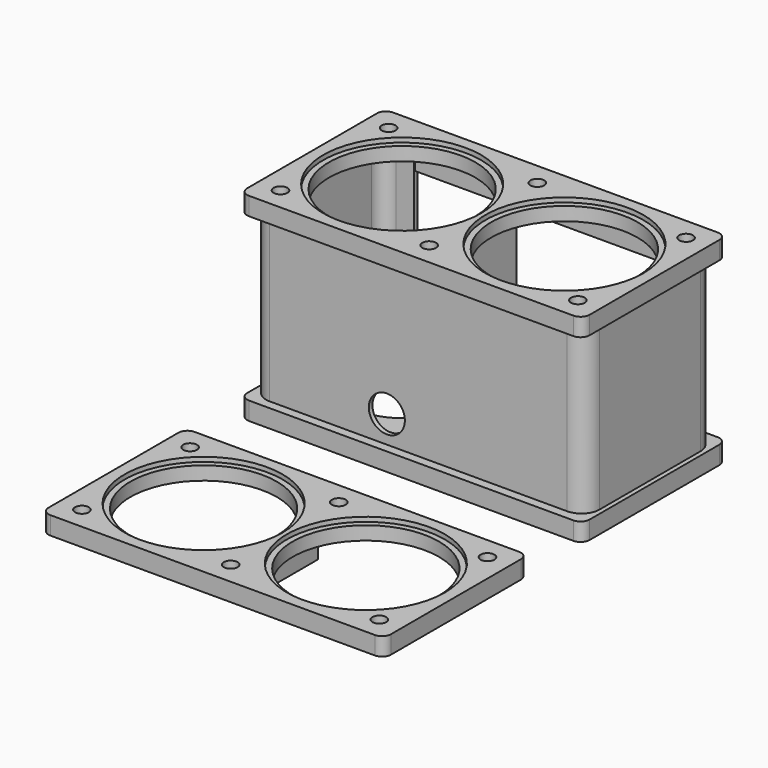
from build123d import *

# Parameters (mm, degrees)
F0_W      = 482.6
F0_H      = 254
F1_DEPTH  = 25.4
F2_W      = 12.7
F2_H      = 101.6
F3_DEPTH  = 228.6
F4_W      = 482.6
F4_H      = 254
F5_DEPTH  = 25.4
F6_R      = 25.4
F7_DEPTH  = 6.35
F9_R      = 103.124
F10_DEPTH = 25.4
F9_R_2    = 111.252
F11_DEPTH = 6.35
F9_R_3    = 9.7234375
F12_DEPTH = 25.4
F13_R     = 69.85
F13_R_2   = 6.746875
F14_DEPTH = 25.4
F16_DEPTH = 25.4
F18_DEPTH = 25.4
F19_W     = 482.6
F19_H     = 254
F19_R     = 9.7234375
F19_R_2   = 111.252
F20_DEPTH = 25.4
F19_R_3   = 103.124
F21_DEPTH = 19.05
F22_W     = 12.7
F22_H     = 101.6
F23_DEPTH = 25.4
F24_R     = 12.7
F24_2_R   = 12.7


with BuildPart() as f1:
    # F0 (on Top) → F1 (new body)
    with BuildSketch(Plane.XY):
        Rectangle(F0_W, F0_H)
    extrude(amount=F1_DEPTH)

    # F2 (on face) → F3 (join)
    with BuildSketch(Plane.XY.offset(25.4)):
        with BuildLine():
            Line((-209.55, -114.3), (209.55, -114.3))
            ThreePointArc((209.55, -114.3), (227.5105122422, -106.8605122422), (234.95, -88.9))
            Line((234.95, -88.9), (234.95, 88.9))
            ThreePointArc((234.95, 88.9), (227.5105122421, 106.8605122421), (209.55, 114.3))
            Line((209.55, 114.3), (184.15, 114.3))
            Line((184.15, 114.3), (184.15, 107.95))
            Line((184.15, 107.95), (209.55, 107.95))
            ThreePointArc((209.55, 107.95), (223.0203841815, 102.3703841815), (228.6, 88.9))
            Line((228.6, 88.9), (228.6, -88.9))
            ThreePointArc((228.6, -88.9), (223.0203841817, -102.3703841817), (209.55, -107.95))
            Line((209.55, -107.95), (-209.55, -107.95))
            ThreePointArc((-209.55, -107.95), (-223.0203841815, -102.3703841815), (-228.6, -88.9))
            Line((-228.6, -88.9), (-228.6, 88.9))
            ThreePointArc((-228.6, 88.9), (-223.0203841817, 102.3703841817), (-209.55, 107.95))
            Line((-209.55, 107.95), (-184.1380936862, 107.95))
            Line((-184.1380936862, 107.95), (-184.15, 114.3))
            Line((-184.15, 114.3), (-209.55, 114.3))
            ThreePointArc((-209.55, 114.3), (-227.5105122422, 106.8605122422), (-234.95, 88.9))
            Line((-234.95, 88.9), (-234.95, -88.9))
            ThreePointArc((-234.95, -88.9), (-227.5105122421, -106.8605122421), (-209.55, -114.3))
        make_face()
        Rectangle(F2_W, F2_H)
    extrude(amount=F3_DEPTH)

    # F4 (on face) → F5 (join)
    with BuildSketch(Plane.XY.offset(254)):
        Rectangle(F4_W, F4_H)
    extrude(amount=F5_DEPTH)

    # F6 (on face) → F7 (cut)
    with BuildSketch(Plane.XZ.offset(114.3)):
        with Locations((-44.45, 63.5)):
            Circle(F6_R)
    extrude(amount=-F7_DEPTH, mode=Mode.SUBTRACT)

    # F9 (on face) → F10 (cut)
    with BuildSketch(Plane.XY.offset(279.4)):
        with Locations((-114.3, 0)):
            Circle(F9_R)
        with Locations((114.3, 0)):
            Circle(F9_R)
    extrude(amount=-F10_DEPTH, mode=Mode.SUBTRACT)

    # F9 (on face) → F11 (cut)
    with BuildSketch(Plane.XY.offset(279.4)):
        with Locations((-114.3, 0)):
            Circle(F9_R_2)
        with Locations((-114.3, 0)):
            Circle(F9_R, mode=Mode.SUBTRACT)
        with Locations((114.3, 0)):
            Circle(F9_R_2)
        with Locations((114.3, 0)):
            Circle(F9_R, mode=Mode.SUBTRACT)
    extrude(amount=-F11_DEPTH, mode=Mode.SUBTRACT)

    # F9 (on face) → F12 (cut)
    with BuildSketch(Plane.XY.offset(279.4)):
        with Locations((-209.55, 95.25)):
            Circle(F9_R_3)
        with Locations((0, 95.25)):
            Circle(F9_R_3)
        with Locations((209.55, 95.25)):
            Circle(F9_R_3)
        with Locations((209.55, -95.25)):
            Circle(F9_R_3)
        with Locations((0, -95.25)):
            Circle(F9_R_3)
        with Locations((-209.55, -95.25)):
            Circle(F9_R_3)
    extrude(amount=-F12_DEPTH, mode=Mode.SUBTRACT)

    # F13 (on face) → F14 (cut)
    with BuildSketch(Plane(origin=(0, 0, 0), x_dir=(1, 0, 0), z_dir=(0, 0, -1))):
        with Locations((114.3, 0)):
            Circle(F13_R)
        with Locations((114.3, -89.8144)):
            Circle(F13_R_2)
        with Locations((177.8083712882, -63.5083712882)):
            Circle(F13_R_2)
        with Locations((50.7916287118, -63.5083712882)):
            Circle(F13_R_2)
        with Locations((50.7916287118, 63.5083712882)):
            Circle(F13_R_2)
        with Locations((114.3, 89.8144)):
            Circle(F13_R_2)
        with Locations((177.8083712882, 63.5083712882)):
            Circle(F13_R_2)
        with Locations((-50.7916287118, -63.5083712882)):
            Circle(F13_R_2)
        with Locations((-114.3, -89.8144)):
            Circle(F13_R_2)
        with Locations((-177.8083712882, -63.5083712882)):
            Circle(F13_R_2)
        with Locations((-114.3, 0)):
            Circle(F13_R)
        with Locations((-50.7916287118, 63.5083712882)):
            Circle(F13_R_2)
        with Locations((-114.3, 89.8144)):
            Circle(F13_R_2)
        with Locations((-177.8083712882, 63.5083712882)):
            Circle(F13_R_2)
    extrude(amount=-F14_DEPTH, mode=Mode.SUBTRACT)

    # F24
    f24_edges = [f1.edges().sort_by_distance(p)[0] for p in [
        (241.3, -127, 266.7),
        (241.3, 127, 266.7),
        (241.3, 127, 12.7),
        (241.3, -127, 12.7),
        (-241.3, -127, 266.7),
        (-241.3, 127, 266.7),
        (-241.3, 127, 12.7),
        (-241.3, -127, 12.7),
    ]]
    fillet(f24_edges, radius=F24_R)


with BuildPart() as f16:
    # F15 (on face) → F16 (new body)
    with BuildSketch(Plane.XY.offset(25.4)):
        Polygon((184.15, 114.3), (-184.15, 114.3), (-184.1410702647, 109.5375), (184.15, 109.5375), align=None)
    extrude(amount=F16_DEPTH)


with BuildPart() as f18:
    # F17 (on face) → F18 (new body)
    with BuildSketch(Plane(origin=(0, 0, 254), x_dir=(1, 0, 0), z_dir=(0, 0, -1))):
        Polygon((184.15, -109.5375), (-184.1410702647, -109.5375), (-184.15, -114.3), (184.15, -114.3), align=None)
    extrude(amount=F18_DEPTH)


with BuildPart() as f20:
    # F19 (on Top) → F20 (new body)
    with BuildSketch(Plane.XY):
        with Locations((0, -349.7336347278)):
            Rectangle(F19_W, F19_H)
        with Locations((-209.55, -444.9836347278)):
            Circle(F19_R, mode=Mode.SUBTRACT)
        with Locations((-114.3, -349.7336347278)):
            Circle(F19_R_2, mode=Mode.SUBTRACT)
        with Locations((0, -444.9836347278)):
            Circle(F19_R, mode=Mode.SUBTRACT)
        with Locations((209.55, -444.9836347278)):
            Circle(F19_R, mode=Mode.SUBTRACT)
        with Locations((114.3, -349.7336347278)):
            Circle(F19_R_2, mode=Mode.SUBTRACT)
        with Locations((-209.55, -254.4836347278)):
            Circle(F19_R, mode=Mode.SUBTRACT)
        with Locations((0, -254.4836347278)):
            Circle(F19_R, mode=Mode.SUBTRACT)
        with Locations((209.55, -254.4836347278)):
            Circle(F19_R, mode=Mode.SUBTRACT)
    extrude(amount=F20_DEPTH)

    # F19 (on Top) → F21 (join)
    with BuildSketch(Plane.XY):
        with Locations((-114.3, -349.7336347278)):
            Circle(F19_R_2)
        with Locations((-114.3, -349.7336347278)):
            Circle(F19_R_3, mode=Mode.SUBTRACT)
        with Locations((114.3, -349.7336347278)):
            Circle(F19_R_2)
        with Locations((114.3, -349.7336347278)):
            Circle(F19_R_3, mode=Mode.SUBTRACT)
    extrude(amount=F21_DEPTH)

    # F22 (on face) → F23 (join)
    with BuildSketch(Plane(origin=(0, 0, 0), x_dir=(1, 0, 0), z_dir=(0, 0, -1))):
        with Locations((0, 349.7336347278)):
            Rectangle(F22_W, F22_H)
    extrude(amount=F23_DEPTH)

    # F24#2
    f24_2_edges = [f20.edges().sort_by_distance(p)[0] for p in [
        (-241.3, -476.733635, 12.7),
        (-241.3, -222.733635, 12.7),
        (241.3, -222.733635, 12.7),
        (241.3, -476.733635, 12.7),
    ]]
    fillet(f24_2_edges, radius=F24_2_R)


solid = Compound([f1.part, f16.part, f18.part, f20.part])
